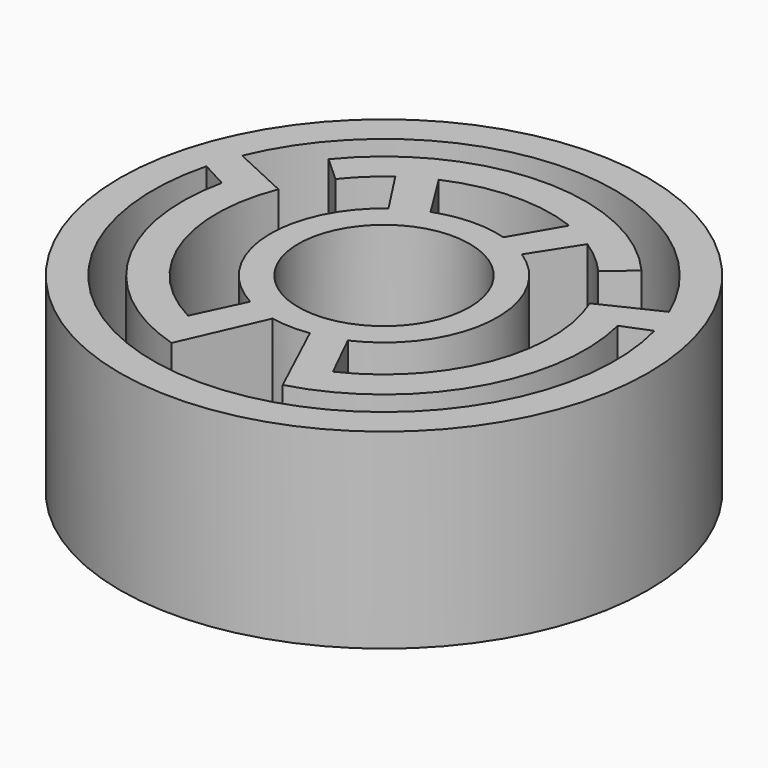
from build123d import *

# Parameters (mm, degrees)
F0_R     = 35.1091
F0_R_2   = 11.393161
F1_DEPTH = 25.4


with BuildPart() as f1:
    # F0 (on Top) → F1 (new body)
    with BuildSketch(Plane.XY):
        with Locations((37.455708, 38.188457)):
            Circle(F0_R)
        with BuildLine():
            ThreePointArc((67.146141, 46.00208), (37.534716, 7.487183), (7.725452, 45.849163))
            Line((7.725452, 45.849163), (11.313939, 43.919829))
            ThreePointArc((11.313939, 43.919829), (14.374897, 24.641617), (29.714165, 12.569925))
            Line((29.714165, 12.569925), (34.466456, 23.405907))
            ThreePointArc((34.466456, 23.405907), (37.000848, 23.113561), (39.548255, 23.252572))
            Line((39.548255, 23.252572), (44.618947, 12.402246))
            ThreePointArc((44.618947, 12.402246), (60.539008, 24.645859), (63.459597, 44.516053))
            Line((63.459597, 44.516053), (67.146141, 46.00208))
        make_face(mode=Mode.SUBTRACT)
        with BuildLine():
            Line((46.820656, 17.996635), (43.649702, 24.437317))
            ThreePointArc((43.649702, 24.437317), (52.493895, 37.042883), (45.661202, 50.842677))
            Line((45.661202, 50.842677), (49.541016, 56.87956))
            ThreePointArc((49.541016, 56.87956), (52.018121, 55.021404), (54.213368, 52.837444))
            Line((54.213368, 52.837444), (57.641099, 55.760898))
            ThreePointArc((57.641099, 55.760898), (36.95968, 64.946534), (16.63291, 55.000709))
            Line((16.63291, 55.000709), (19.981425, 51.974734))
            ThreePointArc((19.981425, 51.974734), (22.082703, 54.284503), (24.486543, 56.27748))
            Line((24.486543, 56.27748), (28.400993, 50.249617))
            ThreePointArc((28.400993, 50.249617), (22.415419, 37.070808), (30.283139, 24.921443))
            Line((30.283139, 24.921443), (27.216956, 18.425362))
            ThreePointArc((27.216956, 18.425362), (16.591173, 30.437125), (16.797069, 46.472938))
            Line((16.797069, 46.472938), (9.129374, 50.028783))
            ThreePointArc((9.129374, 50.028783), (37.314565, 68.889509), (65.671979, 50.288727))
            Line((65.671979, 50.288727), (58.045574, 46.642415))
            ThreePointArc((58.045574, 46.642415), (58.179315, 30.067862), (46.820656, 17.996635))
        make_face(mode=Mode.SUBTRACT)
        with BuildLine():
            ThreePointArc((41.770592, 52.639796), (37.016011, 53.263804), (32.305881, 52.363742))
            Line((32.305881, 52.363742), (28.448893, 58.542554))
            ThreePointArc((28.448893, 58.542554), (36.911639, 60.439659), (45.456988, 58.958423))
            Line((45.456988, 58.958423), (41.770592, 52.639796))
        make_face(mode=Mode.SUBTRACT)
        with Locations((37.455708, 38.188457)):
            Circle(F0_R_2, mode=Mode.SUBTRACT)
    extrude(amount=F1_DEPTH)


solid = f1.part
